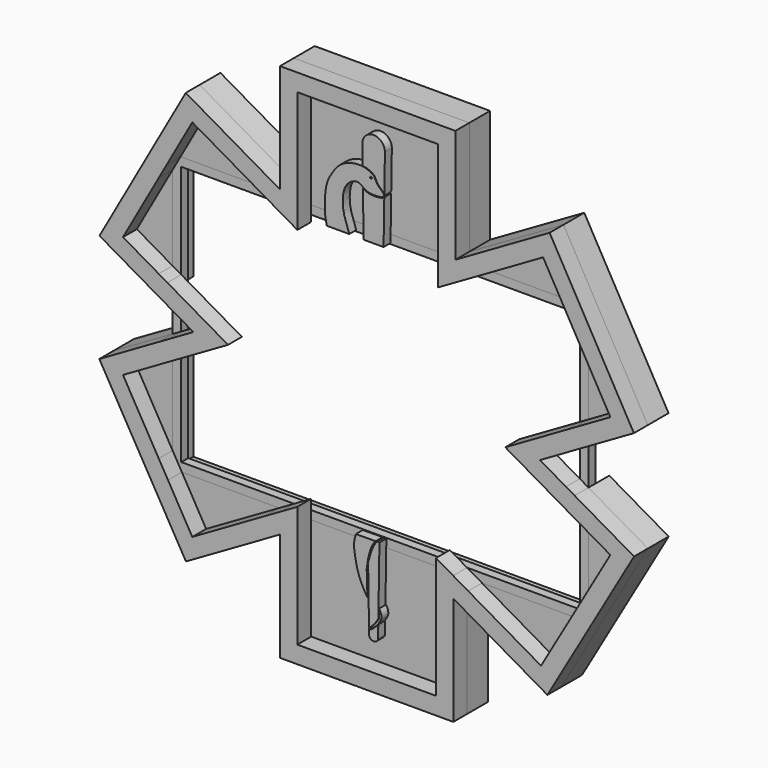
from build123d import *

# Parameters (mm, degrees)
F0_W     = 51.5620016932
F0_H     = 38.9639161604
F2_DEPTH = 9.525
F0_W_2   = 50.8
F0_H_2   = 37.6440905122
F3_DEPTH = 3.175
F1_R     = 0.329158201
F4_DEPTH = 6.35
F0_H_3   = 3.175
F5_DEPTH = 3.175


with BuildPart() as f2:
    # F0 (on Front) → F2 (new body)
    with BuildSketch(Plane.XZ):
        with Locations((0.3810008466, 70.2819580802)):
            Rectangle(F0_W, F0_H)
        Polygon((-76.2, 45.5863382844), (-76.2, 50.8), (-73.2775642717, 50.8), (-63.8948291982, 67.5389161604), (-34.9021759448, 50.8), (-25.4, 50.8), (-25.4, 89.7639161604), (26.1620016932, 89.7639161604), (26.1620016932, 50.8), (38.7275799901, 50.8), (64.6568308915, 65.7702599878), (73.127035004, 50.8), (76.2, 50.8), (76.2, 45.3688339606), (89.2948291982, 22.225), (76.2, 14.6646968374), (76.2, 7.3323484187), (97.921429563, 19.8732216241), (67.0291698335, 74.4722789333), (32.5120016932, 54.5437826158), (32.5120016932, 96.1139161604), (-31.75, 96.1139161604), (-31.75, 56.3124387885), (-66.2893999781, 76.2537706635), (-97.8996686231, 19.8606579396), (-76.2, 7.3323484187), (-76.2, 14.6646968374), (-89.2948291982, 22.225), align=None)
        Polygon((-63.8948291982, 67.5389161604), (-73.2775642717, 50.8), (-34.9021759448, 50.8), align=None)
        Polygon((-76.2, 14.6646968374), (-76.2, 45.5863382844), (-89.2948291982, 22.225), align=None)
        Polygon((89.2948291982, 22.225), (76.2, 45.3688339606), (76.2, 14.6646968374), align=None)
        Polygon((64.6568308915, 65.7702599878), (38.7275799901, 50.8), (73.127035004, 50.8), align=None)
    extrude(amount=-F2_DEPTH)


with BuildPart() as f2b:
    # F0 (on Front) → F2, piece 2 (new body)
    with BuildSketch(Plane.XZ):
        Polygon((-76.2, -14.6646968374), (-76.2, -7.3323484187), (-97.9690905122, -19.900738686), (-66.2190905122, -74.8933518263), (-31.75, -54.9926131403), (-31.75, -94.7940905122), (31.75, -94.7940905122), (31.75, -54.9926131403), (66.2190905122, -74.8933518263), (97.9690905122, -19.900738686), (76.2, -7.3323484187), (76.2, -14.6646968374), (89.2948291982, -22.225), (76.2, -44.9059094878), (76.2, -50.8), (72.7970452561, -50.8), (63.8948291982, -66.2190905122), (37.1881810245, -50.8), (25.4, -50.8), (25.4, -88.4440905122), (-25.4, -88.4440905122), (-25.4, -50.8), (-37.1881810245, -50.8), (-63.8948291982, -66.2190905122), (-72.7970452561, -50.8), (-76.2, -50.8), (-76.2, -44.9059094878), (-89.2948291982, -22.225), align=None)
        Polygon((-76.2, -44.9059094878), (-76.2, -14.6646968374), (-89.2948291982, -22.225), align=None)
        Polygon((-37.1881810245, -50.8), (-72.7970452561, -50.8), (-63.8948291982, -66.2190905122), align=None)
        with Locations((0, -69.6220452561)):
            Rectangle(F0_W_2, F0_H_2)
        Polygon((72.7970452561, -50.8), (37.1881810245, -50.8), (63.8948291982, -66.2190905122), align=None)
        Polygon((89.2948291982, -22.225), (76.2, -14.6646968374), (76.2, -44.9059094878), align=None)
    extrude(amount=-F2_DEPTH)


with BuildPart() as f3:
    # F1 (on Front) → F3 (new body)
    with BuildSketch(Plane.XZ):
        with BuildLine():
            Line((3.9133900103, 64.1113460834), (3.9134060451, 64.1123564939))
            add(Edge.make_bspline(
                [(-3.9183567829, 64.4212158986), (-3.672436321, 64.2570787032), (-3.0767216948, 63.9900756733), (-1.8801532968, 63.4823334321), (-0.4850944797, 63.2907827595), (0.9890740409, 63.2598546176), (2.5991545123, 63.4781240364), (3.5355238795, 63.7551846551), (3.9089947329, 64.1141633384), (3.9134060451, 64.1123564939)],
                knots=[0, 0, 0, 0, 0.1291019907, 0.2812403037, 0.4398258445, 0.603805095, 0.7747570351, 0.9117121143, 0.9957433153, 0.9957433153, 0.9957433153, 0.9957433153], degree=3))
            Line((-3.9183567829, 64.4212158986), (-3.6571268074, 47.9565971087))
            Line((-3.6571268074, 47.9565971087), (3.6570210271, 47.9565971087))
            Line((3.6570210271, 47.9565971087), (3.9133900103, 64.1113460834))
        make_face()
    extrude(amount=F3_DEPTH)


with BuildPart() as f3b:
    # F1 (on Front) → F3, piece 2 (new body)
    with BuildSketch(Plane.XZ):
        with BuildLine():
            ThreePointArc((4.1461223737, 78.7766650363), (0, 82.92278741), (-4.1461223737, 78.7766650363))
            Line((-4.1461223737, 78.7766650363), (-4.032783039, 71.6331933285))
            add(Edge.make_bspline(
                [(-4.032783039, 71.6331933285), (-3.6800869601, 71.5719388222), (-2.8570012284, 71.5582434167), (-1.647604264, 71.1056556023), (-0.4243813857, 70.4593325726), (0.3889240971, 69.8200367144), (0.7592074477, 68.9161902721), (1.219021233, 68.0195740978), (1.7577110339, 67.3016654214), (2.8001146531, 66.2449608145), (3.2224148306, 65.8935453015), (3.7233974815, 65.3629224159), (3.8648513903, 65.0949791451), (3.9271278692, 64.9770189084)],
                knots=[0, 0, 0, 0, 0.0993693334, 0.2052097333, 0.314401464, 0.4071442296, 0.4976146095, 0.5892376731, 0.6795173136, 0.7907781693, 0.8619660423, 0.9390260855, 1, 1, 1, 1], degree=3))
            Line((3.9271278692, 64.9770189084), (4.1461223737, 78.7766650363))
        make_face()
    extrude(amount=F3_DEPTH)


with BuildPart() as f3c:
    # F1 (on Front) → F3, piece 3 (new body)
    with BuildSketch(Plane.XZ):
        with BuildLine():
            Line((-1.676083848, -76.9031823696), (-1.6436219448, -78.9491683245))
            ThreePointArc((-1.6436219448, -78.9491683245), (-0.0030470751, -80.4317094656), (1.6429844192, -78.9552290363))
            Line((1.6429844192, -78.9552290363), (1.7146473606, -74.4394845244))
            add(Edge.make_bspline(
                [(-1.676083848, -76.9031823696), (-1.622455717, -76.9367920607), (-1.4998830935, -77.0136104755), (-1.1324716835, -77.0231384313), (-0.4516094245, -76.5877921667), (0.433766617, -75.7912834658), (1.1341648988, -75.1965896565), (1.5207790794, -74.6923408642), (1.7146473606, -74.4394845244)],
                knots=[0, 0, 0, 0, 0.0895127114, 0.2045905324, 0.38465627, 0.6083243953, 0.8035936599, 1, 1, 1, 1], degree=3))
        make_face()
    extrude(amount=F3_DEPTH)


with BuildPart() as f3d:
    # F1 (on Front) → F3, piece 4 (new body)
    with BuildSketch(Plane.XZ):
        with BuildLine():
            Line((-17.1464066952, 48.0587258935), (-8.9020719752, 48.0651445687))
            add(Edge.make_bspline(
                [(-8.9020719752, 48.0651445687), (-9.5988656698, 50.0345124603), (-11.1871630982, 53.6558948855), (-11.5382227966, 60.1814871543), (-9.8510174759, 64.5517900106), (-5.4830124, 66.7097775944), (-2.944460427, 63.4392822921), (1.9097306626, 63.5363658268), (3.5913468561, 64.0068213738), (3.9120146414, 64.9242123722), (3.0486902248, 65.8921674123), (1.7608318128, 66.8693992138), (0.5390249258, 68.7675102537), (0.1995961111, 70.0537291213), (-3.3172627943, 71.7401645578), (-7.6268993092, 71.6364933211), (-12.4702665961, 69.7466500319), (-15.1493687854, 65.8658246956), (-17.7522502063, 61.6300322028), (-18.1080721024, 52.5040103823), (-17.5104164914, 49.8787824023), (-17.1464066952, 48.0587258935)],
                knots=[0, 0, 0, 0, 0.0688279426, 0.1389525283, 0.1983098674, 0.2529412362, 0.3055726824, 0.3657136441, 0.4009392641, 0.4243404106, 0.4542624068, 0.4907511107, 0.5317312635, 0.5628614791, 0.6149300211, 0.6736388156, 0.7357611196, 0.7946752259, 0.8572605977, 0.9389933042, 1, 1, 1, 1], degree=3))
        make_face()
        with Locations((-0.989115797, 68.8003227115)):
            Circle(F1_R, mode=Mode.SUBTRACT)
    extrude(amount=F3_DEPTH)


with BuildPart() as f3e:
    # F1 (on Front) → F3, piece 5 (new body)
    with BuildSketch(Plane.XZ):
        with BuildLine():
            add(Edge.make_bspline(
                [(-1.4026297722, -76.5056535602), (-1.0643160368, -76.268787792), (-0.4485674931, -75.7555140125), (0.4853362678, -74.7109743923), (1.3142533289, -73.6586134076), (1.7744226514, -72.7901208572), (1.9355800468, -72.4456608295)],
                knots=[0, 0, 0, 0, 0.2392288551, 0.4945668461, 0.7498661776, 1, 1, 1, 1], degree=3))
            add(Edge.make_bspline(
                [(1.986670771, -69.2262471012), (2.1706743566, -69.4417337643), (2.4318732105, -69.9041137393), (2.7589285277, -70.6838168603), (2.9051447717, -71.7028755031), (2.7050347627, -72.633242329), (2.2740506305, -73.4399180647), (1.5276663996, -74.5453965407), (0.5444923141, -75.5598040286), (-0.4782159524, -76.3769821923), (-1.3206880719, -77.043766273), (-1.8159362492, -76.6490407733), (-1.5392357526, -76.5530458715), (-1.4026297722, -76.5056535602)],
                knots=[0, 0, 0, 0, 0.0863612707, 0.1744264448, 0.2714055394, 0.3639061286, 0.4552684632, 0.5658692521, 0.6807691469, 0.7937086753, 0.8884479517, 0.9451866286, 1, 1, 1, 1], degree=3))
            Line((1.986670771, -69.2262471012), (1.9355800468, -72.4456608295))
        make_face()
    extrude(amount=F3_DEPTH)


with BuildPart() as f3f:
    # F1 (on Front) → F3, piece 6 (new body)
    with BuildSketch(Plane.XZ):
        with BuildLine():
            add(Edge.make_bspline(
                [(-2.2619345691, -67.0437291265), (-2.9349583791, -66.0461475315), (-4.0968575048, -64.0022718682), (-5.8196198687, -60.0912828165), (-6.7312758823, -55.6122036957), (-7.4494703223, -51.1811989135), (-6.8081860621, -48.9624229508), (-6.5090721473, -47.9249842465)],
                knots=[0, 0, 0, 0, 0.1879227511, 0.3928929701, 0.6086797661, 0.8186041729, 1, 1, 1, 1], degree=3))
            Line((-2.2619345691, -67.0437291265), (-2.5281349663, -57.9186603427))
            add(Edge.make_bspline(
                [(-2.5281349663, -57.9186603427), (-2.4039412724, -56.3791226258), (-1.8940709796, -53.5878354709), (-1.2613466167, -51.3031431048), (-0.3156321795, -49.100613176), (0.4256194662, -48.2414081539), (0.7618024829, -47.8533245623)],
                knots=[0, 0, 0, 0, 0.3259496066, 0.5669710336, 0.8024867964, 1, 1, 1, 1], degree=3))
            Line((0.7618024829, -47.8533245623), (-6.5090721473, -47.9249842465))
        make_face()
    extrude(amount=F3_DEPTH)


with BuildPart() as f3g:
    # F1 (on Front) → F3, piece 7 (new body)
    with BuildSketch(Plane.XZ):
        with BuildLine():
            add(Edge.make_bspline(
                [(1.2967820512, -47.8533245623), (0.9340760706, -48.27830807), (0.1711721099, -49.1722045554), (-0.6667253951, -51.1366140498), (-1.3078043051, -53.0632382173), (-1.7677781631, -54.7472784422), (-2.0133477741, -55.6463493256)],
                knots=[0, 0, 0, 0, 0.2247680488, 0.472769802, 0.7185237545, 1, 1, 1, 1], degree=3))
            Line((-2.0133477741, -55.6463493256), (-1.6821141084, -76.5231113643))
            add(Edge.make_bspline(
                [(1.7445915603, -72.5525907831), (1.5717215584, -72.8510157622), (1.227194361, -73.4457720565), (0.6219171839, -74.2685610613), (0.1027972086, -74.9514912971), (-0.4492380326, -75.468530269), (-0.8459254665, -75.9500055604), (-1.3810480887, -76.316767156), (-1.6821141084, -76.5231113643)],
                knots=[0, 0, 0, 0, 0.1815420267, 0.3618104068, 0.5276144785, 0.6801842202, 0.820068037, 1, 1, 1, 1], degree=3))
            Line((1.7445915603, -72.5525907831), (2.1365583917, -47.8533245623))
            Line((2.1365583917, -47.8533245623), (1.2967820512, -47.8533245623))
        make_face()
    extrude(amount=F3_DEPTH)


with BuildPart() as f4:
    # F0 (on Front) → F4 (new body)
    with BuildSketch(Plane.XZ):
        Polygon((-76.2, 45.5863382844), (-76.2, 50.8), (-73.2775642717, 50.8), (-63.8948291982, 67.5389161604), (-34.9021759448, 50.8), (-25.4, 50.8), (-25.4, 89.7639161604), (26.1620016932, 89.7639161604), (26.1620016932, 50.8), (38.7275799901, 50.8), (64.6568308915, 65.7702599878), (73.127035004, 50.8), (76.2, 50.8), (76.2, 45.3688339606), (89.2948291982, 22.225), (76.2, 14.6646968374), (76.2, 7.3323484187), (97.921429563, 19.8732216241), (67.0291698335, 74.4722789333), (32.5120016932, 54.5437826158), (32.5120016932, 96.1139161604), (-31.75, 96.1139161604), (-31.75, 56.3124387885), (-66.2893999781, 76.2537706635), (-97.8996686231, 19.8606579396), (-76.2, 7.3323484187), (-76.2, 14.6646968374), (-89.2948291982, 22.225), align=None)
        Polygon((-25.4, 50.8), (-34.9021759448, 50.8), (-29.4029146307, 47.625), (-25.4, 47.625), align=None)
        Polygon((-25.4, 47.625), (-29.4029146307, 47.625), (-25.4, 45.3139161604), align=None)
        Polygon((-73.2775642717, 50.8), (-76.2, 50.8), (-76.2, 45.5863382844), align=None)
        Polygon((-50.8, 0), (-73.025, 12.8316097327), (-73.025, 5.499261314), (-63.5, 0), (-73.025, -5.499261314), (-73.025, -12.8316097327), align=None)
        Polygon((-73.025, 12.8316097327), (-76.2, 14.6646968374), (-76.2, 7.3323484187), (-73.025, 5.499261314), align=None)
        Polygon((-73.025, -5.499261314), (-76.2, -7.3323484187), (-76.2, -14.6646968374), (-73.025, -12.8316097327), align=None)
        Polygon((-76.2, -14.6646968374), (-76.2, -7.3323484187), (-97.9690905122, -19.900738686), (-66.2190905122, -74.8933518263), (-31.75, -54.9926131403), (-31.75, -94.7940905122), (31.75, -94.7940905122), (31.75, -54.9926131403), (66.2190905122, -74.8933518263), (97.9690905122, -19.900738686), (76.2, -7.3323484187), (76.2, -14.6646968374), (89.2948291982, -22.225), (76.2, -44.9059094878), (76.2, -50.8), (72.7970452561, -50.8), (63.8948291982, -66.2190905122), (37.1881810245, -50.8), (25.4, -50.8), (25.4, -88.4440905122), (-25.4, -88.4440905122), (-25.4, -50.8), (-37.1881810245, -50.8), (-63.8948291982, -66.2190905122), (-72.7970452561, -50.8), (-76.2, -50.8), (-76.2, -44.9059094878), (-89.2948291982, -22.225), align=None)
        Polygon((-25.4, -43.9940905122), (-31.6889197105, -47.625), (-25.4, -47.625), align=None)
        Polygon((-25.4, -47.625), (-31.6889197105, -47.625), (-37.1881810245, -50.8), (-25.4, -50.8), align=None)
        Polygon((-72.7970452561, -50.8), (-76.2, -44.9059094878), (-76.2, -50.8), align=None)
        Polygon((31.6889197105, -47.625), (25.4, -47.625), (25.4, -50.8), (37.1881810245, -50.8), align=None)
        Polygon((25.4, -43.9940905122), (25.4, -47.625), (31.6889197105, -47.625), align=None)
        Polygon((73.025, 5.499261314), (73.025, 12.8316097327), (50.8, 0), (73.025, -12.8316097327), (73.025, -5.499261314), (63.5, 0), align=None)
        Polygon((76.2, -14.6646968374), (76.2, -7.3323484187), (73.025, -5.499261314), (73.025, -12.8316097327), align=None)
        Polygon((76.2, 7.3323484187), (76.2, 14.6646968374), (73.025, 12.8316097327), (73.025, 5.499261314), align=None)
        Polygon((76.2, 50.8), (73.127035004, 50.8), (76.2, 45.3688339606), align=None)
        Polygon((38.7275799901, 50.8), (26.1620016932, 50.8), (26.1620016932, 47.625), (33.2283186761, 47.625), align=None)
        Polygon((33.2283186761, 47.625), (26.1620016932, 47.625), (26.1620016932, 43.5452599878), align=None)
        Polygon((76.2, -50.8), (76.2, -44.9059094878), (72.7970452561, -50.8), align=None)
    extrude(amount=F4_DEPTH)


with BuildPart() as f5:
    # F0 (on Front) → F5 (new body)
    with BuildSketch(Plane.XZ):
        with Locations((0.3810008466, 49.2125)):
            Rectangle(F0_W, F0_H_3)
        Polygon((-25.4, 50.8), (-34.9021759448, 50.8), (-29.4029146307, 47.625), (-25.4, 47.625), align=None)
        Polygon((-34.9021759448, 50.8), (-73.2775642717, 50.8), (-76.2, 45.5863382844), (-76.2, 14.6646968374), (-73.025, 12.8316097327), (-73.025, 47.625), (-29.4029146307, 47.625), align=None)
        Polygon((-73.2775642717, 50.8), (-76.2, 50.8), (-76.2, 45.5863382844), align=None)
        Polygon((-73.025, 12.8316097327), (-76.2, 14.6646968374), (-76.2, 7.3323484187), (-73.025, 5.499261314), align=None)
        Polygon((-73.025, 5.499261314), (-76.2, 7.3323484187), (-76.2, -7.3323484187), (-73.025, -5.499261314), align=None)
        Polygon((-73.025, -5.499261314), (-76.2, -7.3323484187), (-76.2, -14.6646968374), (-73.025, -12.8316097327), align=None)
        Polygon((-73.025, -12.8316097327), (-76.2, -14.6646968374), (-76.2, -44.9059094878), (-72.7970452561, -50.8), (-37.1881810245, -50.8), (-31.6889197105, -47.625), (-73.025, -47.625), align=None)
        Polygon((-72.7970452561, -50.8), (-76.2, -44.9059094878), (-76.2, -50.8), align=None)
        Polygon((-25.4, -47.625), (-31.6889197105, -47.625), (-37.1881810245, -50.8), (-25.4, -50.8), align=None)
        with Locations((0, -49.2125)):
            Rectangle(F0_W_2, F0_H_3)
        Polygon((31.6889197105, -47.625), (25.4, -47.625), (25.4, -50.8), (37.1881810245, -50.8), align=None)
        Polygon((76.2, -14.6646968374), (73.025, -12.8316097327), (73.025, -47.625), (31.6889197105, -47.625), (37.1881810245, -50.8), (72.7970452561, -50.8), (76.2, -44.9059094878), align=None)
        Polygon((76.2, -50.8), (76.2, -44.9059094878), (72.7970452561, -50.8), align=None)
        Polygon((76.2, -14.6646968374), (76.2, -7.3323484187), (73.025, -5.499261314), (73.025, -12.8316097327), align=None)
        Polygon((76.2, -7.3323484187), (76.2, 7.3323484187), (73.025, 5.499261314), (73.025, -5.499261314), align=None)
        Polygon((76.2, 7.3323484187), (76.2, 14.6646968374), (73.025, 12.8316097327), (73.025, 5.499261314), align=None)
        Polygon((73.127035004, 50.8), (38.7275799901, 50.8), (33.2283186761, 47.625), (73.025, 47.625), (73.025, 12.8316097327), (76.2, 14.6646968374), (76.2, 45.3688339606), align=None)
        Polygon((76.2, 50.8), (73.127035004, 50.8), (76.2, 45.3688339606), align=None)
        Polygon((38.7275799901, 50.8), (26.1620016932, 50.8), (26.1620016932, 47.625), (33.2283186761, 47.625), align=None)
    extrude(amount=-F5_DEPTH)


solid = Compound([f2.part, f2b.part, f3.part, f3b.part, f3c.part, f3d.part, f3e.part, f3f.part, f3g.part, f4.part, f5.part])
